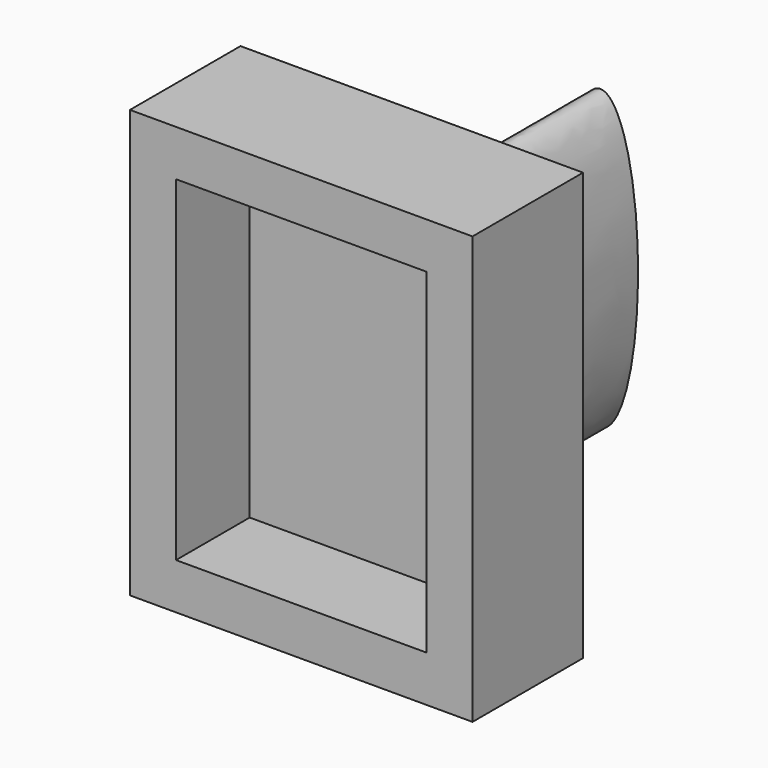
from build123d import *

# Parameters (mm, degrees)
F0_W     = 69.0704714507
F0_H     = 92.4708135426
F1_DEPTH = 25.4
F2_T     = 12.7
F5_DEPTH = 50.8


with BuildPart() as f1:
    # F0 (on Front) → F1 (new body)
    with BuildSketch(Plane.XZ):
        with Locations((45.1410496607, -5.9002693743)):
            Rectangle(F0_W, F0_H)
    extrude(amount=F1_DEPTH)

    # F2
    f2_openings = [f1.faces().sort_by_distance(p)[0] for p in [
        (45.14105, -25.4, -5.900269),
    ]]
    offset(amount=F2_T, openings=f2_openings, kind=Kind.INTERSECTION)

    # F4 (on face) → F5 (join)
    with BuildSketch(Plane(origin=(0, 12.7, 0), x_dir=(-1, 0, 0), z_dir=(0, 1, 0))):
        with BuildLine():
            add(Edge.make_bspline(
                [(-56.5086975694, -41.0468280315), (-38.4809391547, -41.0468280315), (-47.494818362, 20.5234140158), (-56.5086975694, 82.0936560631), (-65.5225767767, 20.5234140158), (-74.5364559841, -41.0468280315), (-56.5086975694, -41.0468280315)],
                knots=[0, 0, 0, 2.0943951024, 2.0943951024, 4.1887902048, 4.1887902048, 6.2831853072, 6.2831853072, 6.2831853072], degree=2, weights=[1, 0.5, 1, 0.5, 1, 0.5, 1]))
        make_face()
        with BuildLine():
            add(Edge.make_bspline(
                [(-56.5086975694, -41.0468280315), (-38.4809391547, -41.0468280315), (-47.494818362, 20.5234140158), (-56.5086975694, 82.0936560631), (-65.5225767767, 20.5234140158), (-74.5364559841, -41.0468280315), (-56.5086975694, -41.0468280315)],
                knots=[0, 0, 0, 2.0943951024, 2.0943951024, 4.1887902048, 4.1887902048, 6.2831853072, 6.2831853072, 6.2831853072], degree=2, weights=[1, 0.5, 1, 0.5, 1, 0.5, 1]))
        make_face()
    extrude(amount=F5_DEPTH)


solid = f1.part
